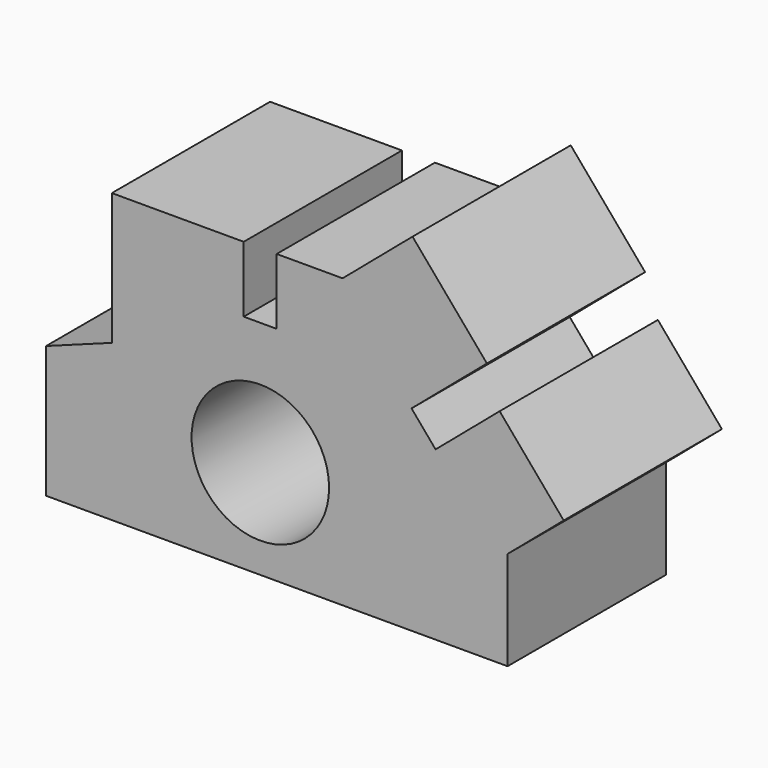
from build123d import *

# Parameters (mm, degrees)
F0_R     = 10.428739
F1_DEPTH = 30


with BuildPart() as f1:
    # F0 (on Front) → F1 (new body)
    with BuildSketch(Plane.XZ):
        Polygon((-53.313535, -23.252012), (-53.313535, -43.252012), (16.686465, -43.252012), (16.686465, -28.252012), (25.202147, -21.013682), (15.48742, -9.584593), (5.770595, -17.843895), (2.121453, -13.550788), (13.550542, -3.83606), (2.27239, 9.432352), (-8.335778, 0.415407), (-18.335778, 0.415407), (-18.335778, -9.584593), (-23.335778, -9.584593), (-23.335778, 0.415407), (-43.335778, 0.415407), (-43.335778, -19.584593), align=None)
        with Locations((-20.813535, -28.252012)):
            Circle(F0_R, mode=Mode.SUBTRACT)
    extrude(amount=F1_DEPTH)


solid = f1.part
